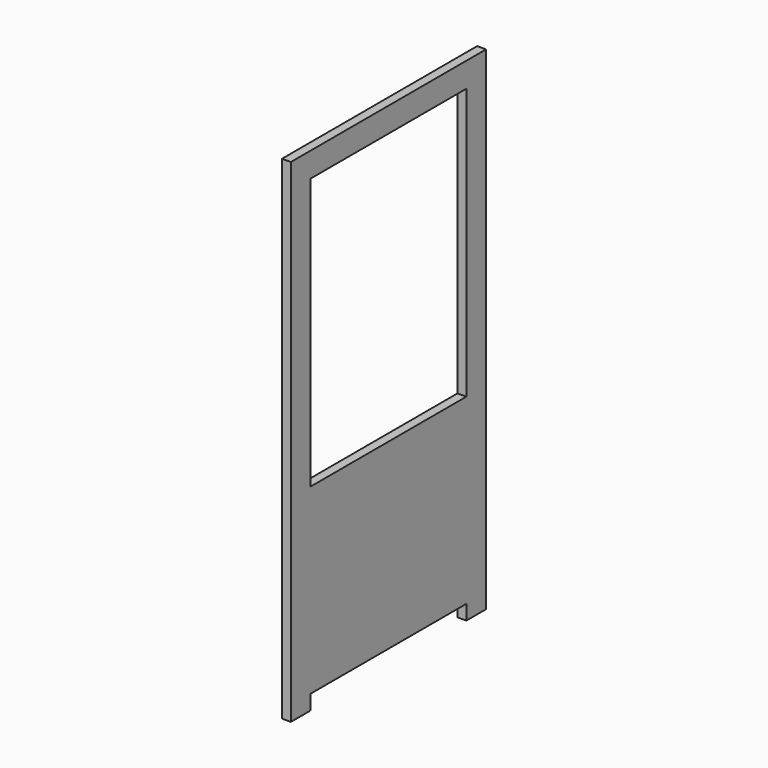
from build123d import *

# Parameters (mm, degrees)
F0_W     = 395
F0_H     = 550
F1_DEPTH = 18


with BuildPart() as f1:
    # F0 (on Right) → F1 (new body)
    with BuildSketch(Plane.YZ):
        Polygon((0, 1000), (0, 0), (50, 0), (50, 30), (445, 30), (445, 0), (495, 0), (495, 1000), align=None)
        with Locations((247.5, 675)):
            Rectangle(F0_W, F0_H, mode=Mode.SUBTRACT)
    extrude(amount=F1_DEPTH)


solid = f1.part
